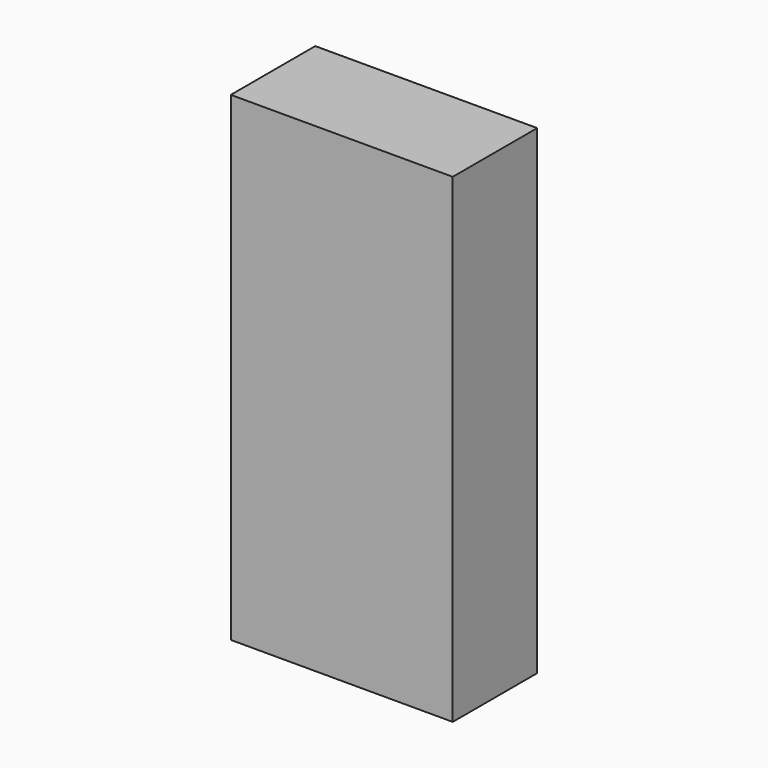
from build123d import *

# Parameters (mm, degrees)
F2_DEPTH = 100


with BuildPart() as f2:
    # F1 (on face) → F2 (new body)
    with BuildSketch(Plane.XY):
        Polygon((24.958193, 0), (16.356766, 0), (0, 0), (0, -21.997049), (46.250194, -21.997049), (46.250194, 0), align=None)
    extrude(amount=F2_DEPTH)


solid = f2.part
